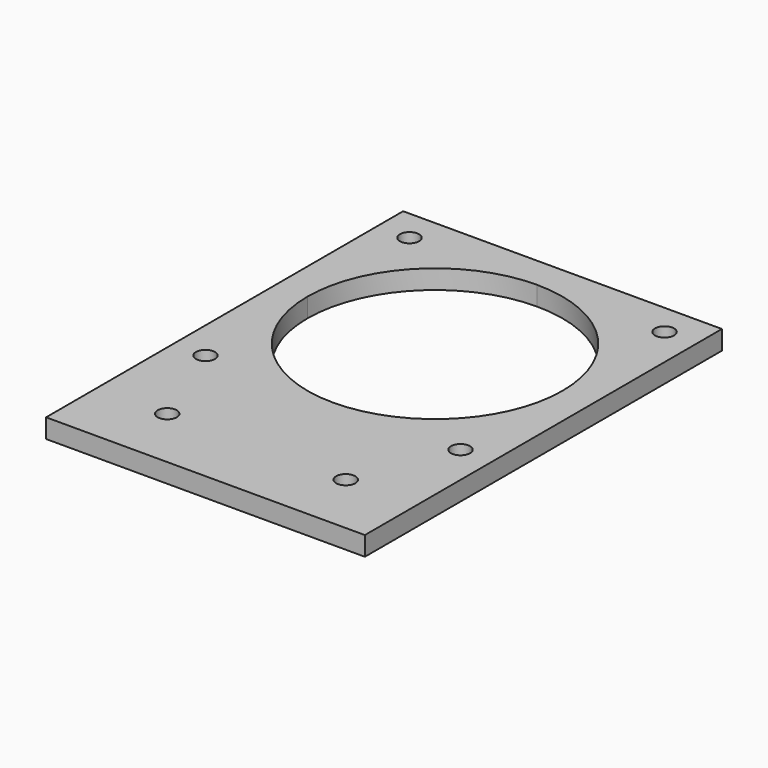
from build123d import *

# Parameters (mm, degrees)
F0_W     = 50
F0_H     = 50
F0_W_2   = 40
F0_H_2   = 40
F1_DEPTH = 3
F2_D     = 3
F3_DEPTH = 20
F5_D     = 3
F7_DEPTH = 25


with BuildPart() as f1:
    # F0 (on Top) → F1 (new body)
    with BuildSketch(Plane.XY):
        Rectangle(F0_W, F0_H)
        Rectangle(F0_W_2, F0_H_2, mode=Mode.SUBTRACT)
        Rectangle(F0_W_2, F0_H_2)
    extrude(amount=F1_DEPTH)

    # F2 (through all)
    with Locations(Plane(origin=(0, 0, 0), x_dir=(1, 0, 0), z_dir=(0, 0, -1))):
        with Locations((-20, 20), (20, 20), (20, -20), (-20, -20)):
            Hole(F2_D / 2)

    # F3 (add): a face of the model
    f3_faces = [f1.faces().sort_by_distance(p)[0] for p in [
        (0, -25, 1.5),
    ]]
    extrude(f3_faces, amount=F3_DEPTH)

    # F5 (through all)
    with Locations(Plane(origin=(0, 0, 0), x_dir=(1, 0, 0), z_dir=(0, 0, -1))):
        with Locations((14, 35), (-14, 35)):
            Hole(F5_D / 2)

    # F6 (on face) → F7 (cut)
    with BuildSketch(Plane.XY):
        with BuildLine():
            ThreePointArc((0, -20), (14.1421356237, -14.1421356237), (20, 0))
            ThreePointArc((20, 0), (14.142135611, 14.1421356364), (-3.59e-08, 20))
            ThreePointArc((-3.59e-08, 20), (-14.1421356364, 14.142135611), (-20, 0))
            ThreePointArc((-20, 0), (-14.1421356237, -14.1421356237), (0, -20))
        make_face()
    extrude(amount=F7_DEPTH, mode=Mode.SUBTRACT)


solid = f1.part
